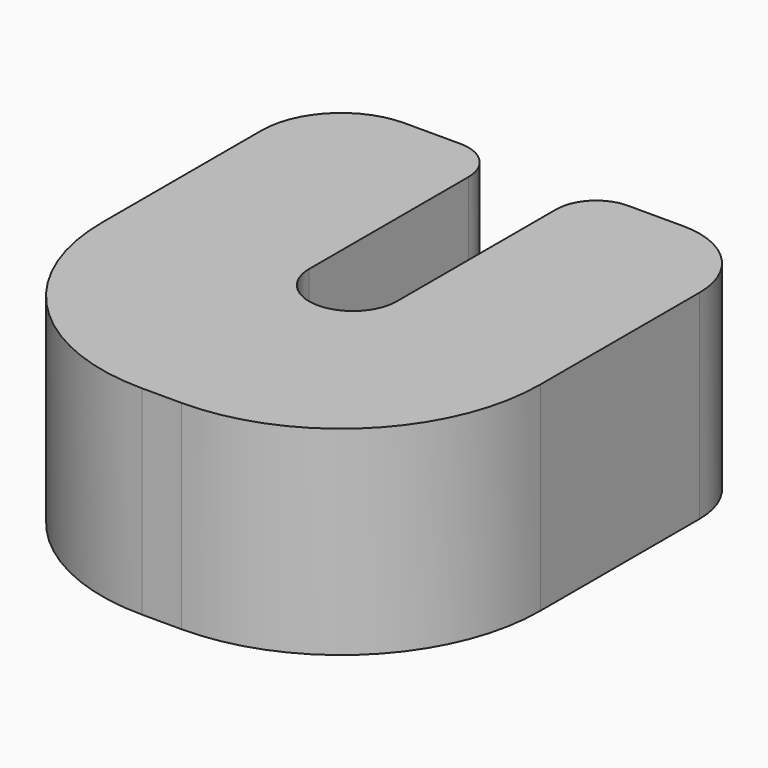
from build123d import *

# Parameters (mm, degrees)
F1_DEPTH = 25


with BuildPart() as f1:
    # F0 (on Top) → F1 (new body)
    with BuildSketch(Plane.XY):
        with BuildLine():
            ThreePointArc((0, 25), (7.32233, 7.32233), (25, 0))
            Line((25, 0), (30, 0))
            ThreePointArc((30, 0), (47.67767, 7.32233), (55, 25))
            Line((55, 25), (55, 50))
            ThreePointArc((55, 50), (52.071068, 57.071068), (45, 60))
            Line((45, 60), (38, 60))
            ThreePointArc((38, 60), (34.464466, 58.535534), (33, 55))
            Line((33, 55), (33, 30))
            ThreePointArc((33, 30), (27.5, 24.5), (22, 30))
            Line((22, 30), (22, 55))
            ThreePointArc((22, 55), (20.535534, 58.535534), (17, 60))
            Line((17, 60), (10, 60))
            ThreePointArc((10, 60), (2.928932, 57.071068), (0, 50))
            Line((0, 50), (0, 25))
        make_face()
    extrude(amount=F1_DEPTH)


solid = f1.part
